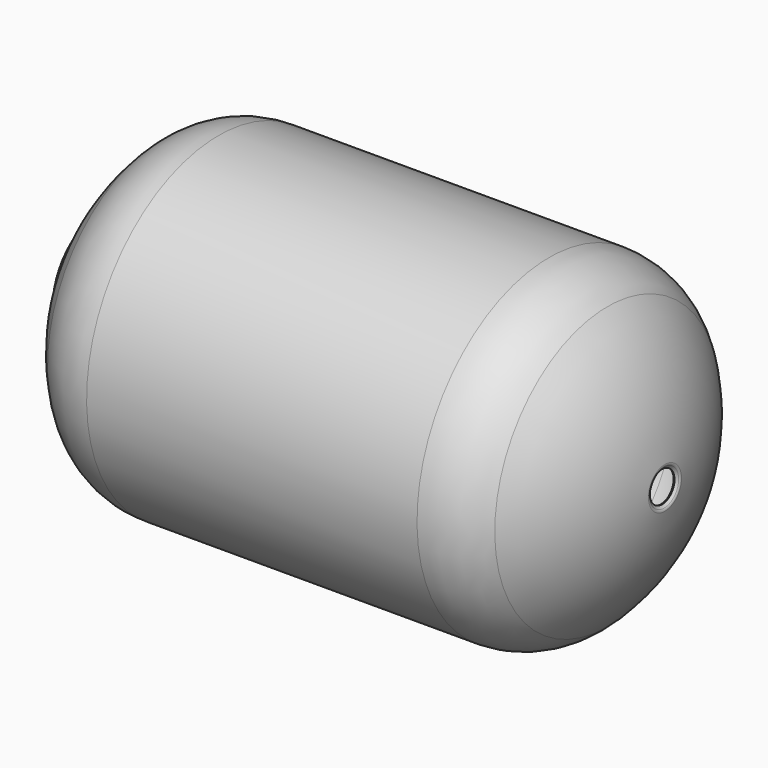
from build123d import *

# Parameters (mm, degrees)
SKETCH037_R             = 3.2385
POCKET004_DEPTH         = 1.27
POLARPATTERN004_COUNT   = 6
SKETCH129_R             = 19.05
POCKET009_DEPTH         = 101.6
FILLET012_R             = 0.3175
BODY003_PLACEMENT_ANGLE = 180


with BuildPart() as part:
    # Sketch012 → Revolution002 (revolve)
    with BuildSketch(Plane.XZ):
        with BuildLine():
            Line((-203.2, 203.2), (203.2, 203.2))
            ThreePointArc((275.0420489686, 173.4420489686), (242.0806367283, 195.4661605031), (203.2, 203.2))
            ThreePointArc((337.7728248389, 66.2320580115), (313.3063573711, 123.8737540785), (275.0420489686, 173.4420489686))
            Line((337.7728248389, 66.2320580115), (343.1352239987, 47.110608437))
            ThreePointArc((343.1352239987, 47.110608437), (345.2290792676, 45.737773599), (346.874461257, 47.625))
            Line((346.874461257, 47.625), (346.874461257, 73.66))
            ThreePointArc((346.874461257, 73.66), (346.5024868691, 74.5580256121), (345.604461257, 74.93))
            Line((345.604461257, 74.93), (343.699461257, 74.93))
            Line((343.699461257, 76.2), (343.699461257, 74.93))
            Line((345.604461257, 76.2), (343.699461257, 76.2))
            ThreePointArc((348.144461257, 73.66), (347.4005124812, 75.4560512242), (345.604461257, 76.2))
            Line((348.144461257, 47.625), (348.144461257, 73.66))
            ThreePointArc((341.9123991598, 46.7676807284), (345.4021579413, 44.479622665), (348.144461257, 47.625))
            Line((336.55, 65.8891303028), (341.9123991598, 46.7676807284))
            ThreePointArc((336.55, 65.8891303028), (312.2102118153, 123.2323767164), (274.1440233564, 172.5440233564))
            ThreePointArc((274.1440233564, 172.5440233564), (241.5946287692, 194.2928334969), (203.2, 201.93))
            Line((-203.2, 201.93), (203.2, 201.93))
            ThreePointArc((-203.2, 201.93), (-241.5946287692, 194.2928334969), (-274.1440233564, 172.5440233564))
            ThreePointArc((-274.1440233564, 172.5440233564), (-321.866561537, 105.0024850217), (-344.2885246402, 25.4))
            ThreePointArc((-344.2885246402, 25.4), (-344.1872955328, 24.1523479928), (-343.641206842, 23.0259954703))
            Line((-343.641206842, 23.0259954703), (-337.635355845, 15.4701462444))
            ThreePointArc((-336.6685246402, 12.7), (-336.9171764085, 14.1670099517), (-337.635355845, 15.4701462444))
            Line((-336.6685246402, 0), (-336.6685246402, 12.7))
            Line((-337.945425216, 0), (-336.6685246402, 0))
            Line((-337.945425216, 0), (-337.945425216, 12.7))
            ThreePointArc((-337.945425216, 12.7), (-338.1227583237, 13.7462400311), (-338.6349484933, 14.6756088835))
            Line((-344.6407994992, 22.2314581207), (-338.6349484933, 14.6756088835))
            ThreePointArc((-345.565425216, 25.4), (-345.4141037499, 23.7249773361), (-344.6407994992, 22.2314581207))
            ThreePointArc((-275.0420489686, 173.4420489686), (-323.0415542349, 105.4889888037), (-345.565425216, 25.4))
            ThreePointArc((-203.2, 203.2), (-242.0806367283, 195.4661605031), (-275.0420489686, 173.4420489686))
        make_face()
    revolve(axis=Axis((0, 0, 0), (1, 0, 0)))

    # Sketch037 (on Face13 of Revolution002) → Pocket004 (cut)
    with BuildSketch(Plane(origin=(348.144461257, 0, 0), x_dir=(0, 0, 1), z_dir=(1, 0, 0))):
        with Locations((63.5, 0)):
            Circle(SKETCH037_R)
    pocket004 = extrude(amount=-POCKET004_DEPTH, mode=Mode.SUBTRACT)

    # PolarPattern004: Pocket004 ×6 about axis
    polarpattern004_axis = Axis((348.144461257, 0, 0), (1, 0, 0))
    for i in range(1, POLARPATTERN004_COUNT):
        add(pocket004.rotate(polarpattern004_axis, i * 360 / POLARPATTERN004_COUNT), mode=Mode.SUBTRACT)

    # Sketch129 → Pocket009 (cut, symmetric)
    with BuildSketch(Plane.YZ.offset(-355.6)):
        Circle(SKETCH129_R)
    extrude(amount=POCKET009_DEPTH, both=True, mode=Mode.SUBTRACT)

    # Fillet012
    fillet012_edges = [part.edges().sort_by_distance(p)[0] for p in [
        (-340.480843, -13.470384, -13.470384),
    ]]
    fillet(fillet012_edges, radius=FILLET012_R)


with BuildPart() as part_1:
    # Body003 placement: moved
    add(part.part.rotate(Axis((0, 0, 0), (0, 1, 0)), BODY003_PLACEMENT_ANGLE))


solid = part_1.part
